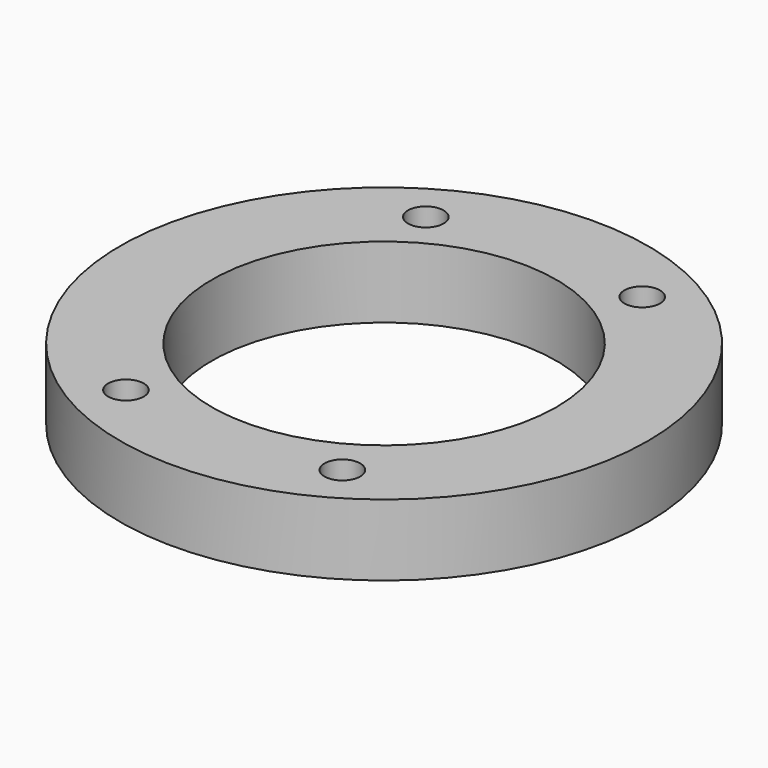
from build123d import *

# Parameters (mm, degrees)
F0_R     = 70.485
F0_R_2   = 4.7625
F0_R_3   = 46.0375
F1_DEPTH = 19.05


with BuildPart() as f1:
    # F0 (on Top) → F1 (new body)
    with BuildSketch(Plane.XY):
        with Locations((-6.82183, 127.916229)):
            Circle(F0_R)
        with Locations((-35.71433, 77.872946)):
            Circle(F0_R_2, mode=Mode.SUBTRACT)
        with Locations((-35.71433, 177.959512)):
            Circle(F0_R_2, mode=Mode.SUBTRACT)
        with Locations((22.07067, 77.872946)):
            Circle(F0_R_2, mode=Mode.SUBTRACT)
        with Locations((-6.82183, 127.916229)):
            Circle(F0_R_3, mode=Mode.SUBTRACT)
        with Locations((22.07067, 177.959512)):
            Circle(F0_R_2, mode=Mode.SUBTRACT)
    extrude(amount=-F1_DEPTH)


solid = f1.part
